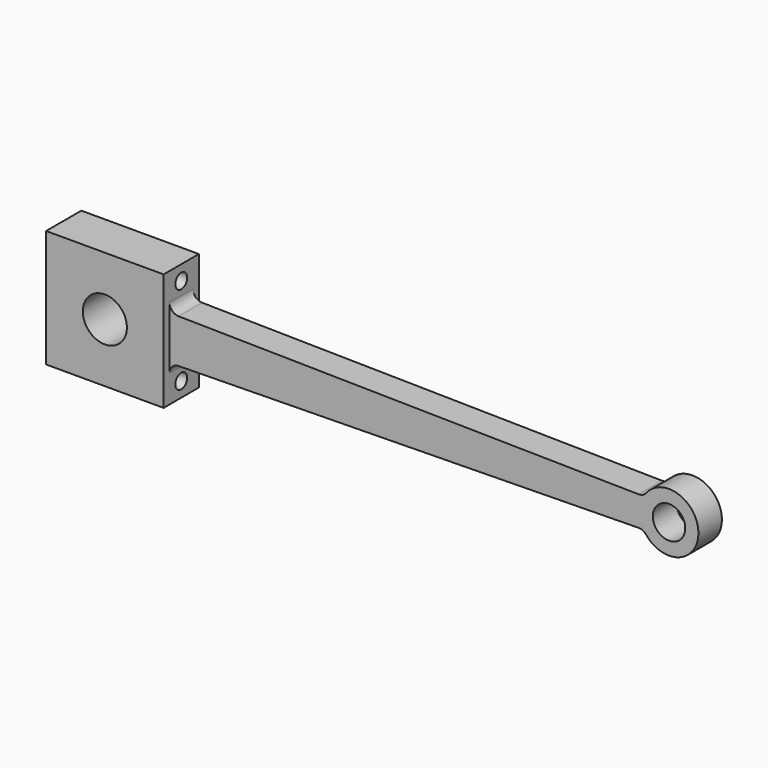
from build123d import *

# Parameters (mm, degrees)
F0_R     = 2.38125
F0_R_2   = 1.75
F1_DEPTH = 2.38125
F2_W     = 57.15
F2_H     = 0.79375
F3_DEPTH = 12.5
F5_D     = 1.6
F6_R     = 1


with BuildPart() as f1:
    # F0 (on Front) → F1 (new body, symmetric)
    with BuildSketch(Plane.XZ):
        with BuildLine():
            Line((6.35, -2.38125), (57.575369343, -1.5875))
            ThreePointArc((57.575369343, -1.5875), (63.5, 0), (57.575369343, 1.5875))
            Line((57.575369343, 1.5875), (6.35, 2.38125))
            Line((6.35, 2.38125), (6.35, 6.35))
            Line((6.35, 6.35), (-6.35, 6.35))
            Line((-6.35, 6.35), (-6.35, -6.35))
            Line((-6.35, -6.35), (6.35, -6.35))
            Line((6.35, -6.35), (6.35, -2.38125))
        make_face()
        Circle(F0_R, mode=Mode.SUBTRACT)
        with Locations((60.325, 0)):
            Circle(F0_R_2, mode=Mode.SUBTRACT)
    extrude(amount=F1_DEPTH, both=True)

    # F2 (on Top) → F3 (cut, symmetric)
    with BuildSketch(Plane.XY):
        with Locations((34.925, 1.984375)):
            Rectangle(F2_W, F2_H)
        with Locations((34.925, -1.984375)):
            Rectangle(F2_W, F2_H)
    extrude(amount=F3_DEPTH, both=True, mode=Mode.SUBTRACT)

    # F5 (through all)
    with Locations(Plane(origin=(-6.35, 0, 0), x_dir=(0, -1, 0), z_dir=(-1, 0, 0))):
        with Locations((0, 4.7625), (0, -4.7625)):
            Hole(F5_D / 2)

    # F6
    f6_edges = [f1.edges().sort_by_distance(p)[0] for p in [
        (6.35, 0, 2.38125),
        (6.35, 0, -2.38125),
        (57.575369, 0, 1.5875),
        (57.575369, 0, -1.5875),
    ]]
    fillet(f6_edges, radius=F6_R)


solid = f1.part
